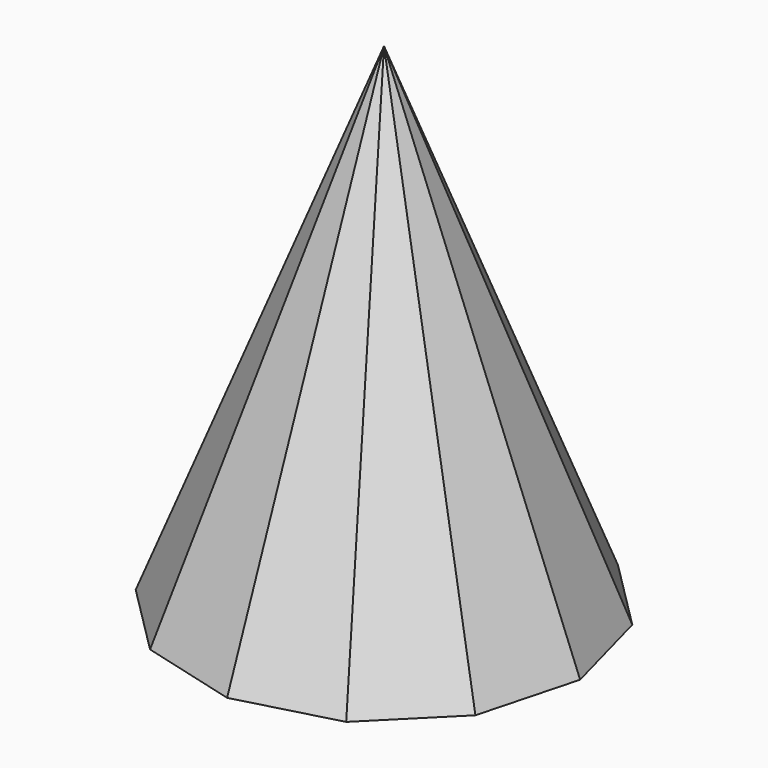
from build123d import *


with BuildPart() as f3:
    # F0 (on Top) → F3 section 0
    with BuildSketch(Plane.XY, mode=Mode.PRIVATE) as f3_s0:
        Polygon((50.418489, 87.327384), (0, 100.836977), (-50.418489, 87.327384), (-87.327384, 50.418489), (-100.836977, 0), (-87.327384, -50.418489), (-50.418489, -87.327384), (0, -100.836977), (50.418489, -87.327384), (87.327384, -50.418489), (100.836977, 0), (87.327384, 50.418489), align=None)
    loft([f3_s0.sketch, Vertex(0, 0, 254)])


solid = f3.part
